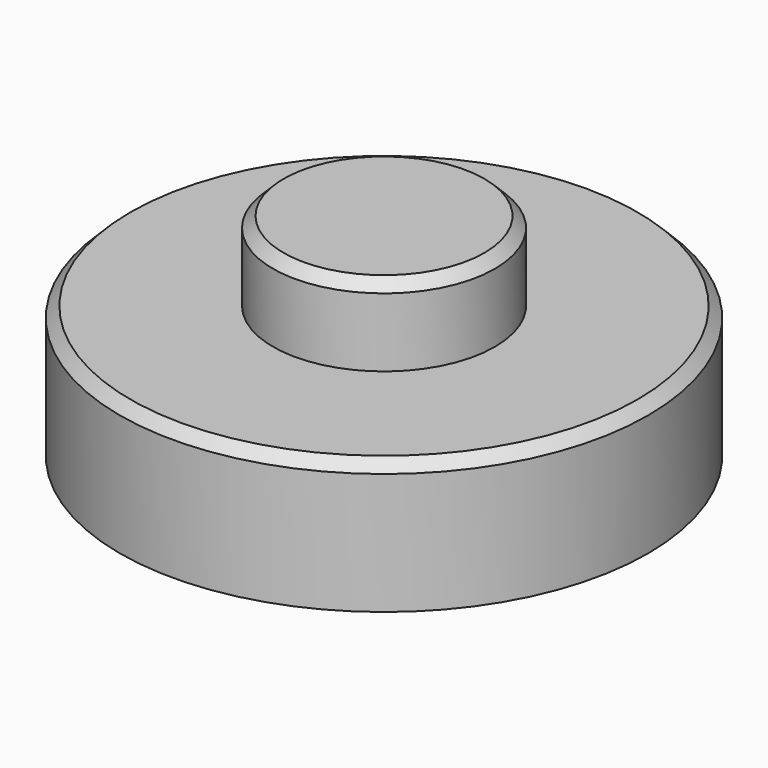
from build123d import *

# Parameters (mm, degrees)
CYLINDER022001020_R     = 4.2
CYLINDER022001020_DEPTH = 3
CYLINDER022001021_R     = 4.3
CYLINDER022001021_DEPTH = 3
CYLINDER022001019_R     = 10
CYLINDER022001019_DEPTH = 5
CHAMFER025002_SIZE      = 0.4


with BuildPart() as cylinder022001020:
    # Cylinder022001020 → Cylinder022001020 (new body)
    with BuildSketch(Plane(origin=(-125, 0, 5), x_dir=(1, 0, 0), z_dir=(0, 0, 1))):
        Circle(CYLINDER022001020_R)
    extrude(amount=CYLINDER022001020_DEPTH)


with BuildPart() as cylinder022001021:
    # Cylinder022001021 → Cylinder022001021 (new body)
    with BuildSketch(Plane(origin=(-125, 0, 0), x_dir=(1, 0, 0), z_dir=(0, 0, 1))):
        Circle(CYLINDER022001021_R)
    extrude(amount=CYLINDER022001021_DEPTH)


with BuildPart() as spacer_r1:
    # Cylinder022001019 → Cylinder022001019 (new body)
    with BuildSketch(Plane(origin=(-125, 0, 0), x_dir=(1, 0, 0), z_dir=(0, 0, 1))):
        Circle(CYLINDER022001019_R)
    extrude(amount=CYLINDER022001019_DEPTH)

    # Cut021013056002: cut Cylinder022001021
    add(cylinder022001021.part, mode=Mode.SUBTRACT)

    # Fusion006010: union Cylinder022001020
    add(cylinder022001020.part)

    # Chamfer025002
    chamfer025002_edges = [spacer_r1.edges().sort_by_distance(p)[0] for p in [
        (-135, 0, 5),
        (-129.2, 0, 8),
    ]]
    chamfer(chamfer025002_edges, length=CHAMFER025002_SIZE)


solid = spacer_r1.part
